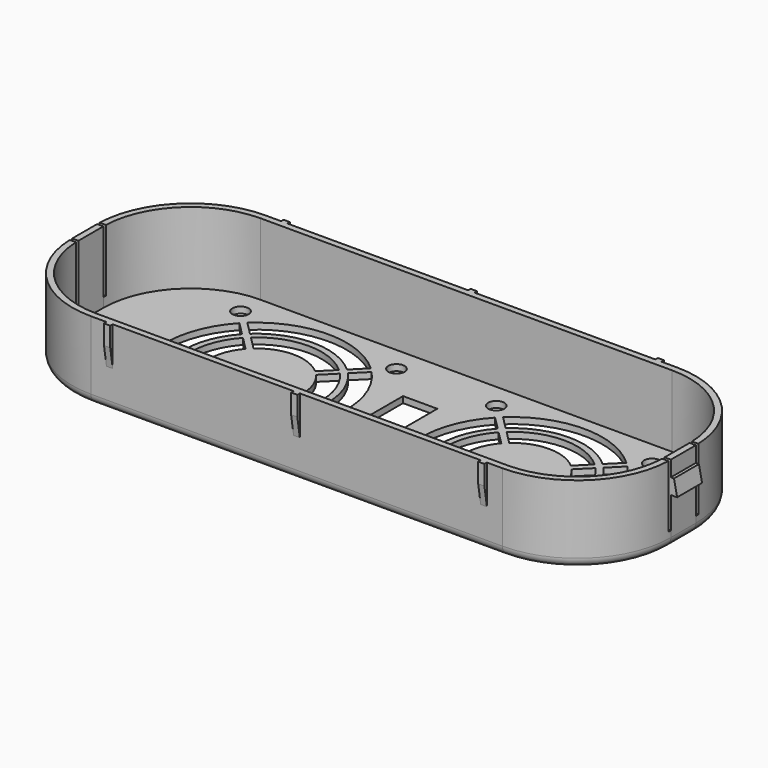
from build123d import *

# Parameters (mm, degrees)
F1_DEPTH  = 25
F2_T      = -2
F3_W      = 1
F3_H      = 20
F4_DEPTH  = 192.001
F5_W      = 10
F5_H      = 5
F6_DEPTH  = 2
F8_DEPTH  = 40.001
F9_W      = 10
F9_H      = 5
F10_DEPTH = 2
F12_DEPTH = 40.001
F13_W     = 2
F13_H     = 12.5
F14_DEPTH = 1
F16_DEPTH = 159.001
F17_W     = 2
F17_H     = 12.5
F18_DEPTH = 1
F20_DEPTH = 159.001
F21_R     = 2.6
F22_DEPTH = 25.001
F23_W     = 11
F23_H     = 29
F24_DEPTH = 25.001
F25_R     = 3


with BuildPart() as f1:
    # F0 (on Top) → F1 (new body)
    with BuildSketch(Plane.XY):
        with BuildLine():
            ThreePointArc((-66, 35), (-87.213203, 26.213203), (-96, 5))
            Line((-96, 5), (-96, -5))
            ThreePointArc((-96, -5), (-87.213203, -26.213203), (-66, -35))
            Line((-66, -35), (66, -35))
            ThreePointArc((66, -35), (87.213203, -26.213203), (96, -5))
            Line((96, -5), (96, 5))
            ThreePointArc((96, 5), (87.213203, 26.213203), (66, 35))
            Line((66, 35), (-66, 35))
        make_face()
    extrude(amount=F1_DEPTH)

    # F2
    f2_openings = [f1.faces().sort_by_distance(p)[0] for p in [
        (0, 0, 25),
    ]]
    offset(amount=F2_T, openings=f2_openings)

    # F3 (on face) → F4 (cut, through all)
    with BuildSketch(Plane.YZ.offset(96)):
        with Locations((-5.5, 15)):
            Rectangle(F3_W, F3_H)
        with Locations((5.5, 15)):
            Rectangle(F3_W, F3_H)
    extrude(amount=-F4_DEPTH, mode=Mode.SUBTRACT)

    # F5 (on face) → F6 (join)
    with BuildSketch(Plane.YZ.offset(96)):
        with Locations((0, 17.5)):
            Rectangle(F5_W, F5_H)
    extrude(amount=F6_DEPTH)

    # F7 (on face) → F8 (cut, through all)
    with BuildSketch(Plane.XZ.offset(5)):
        Polygon((97, 20), (98, 15), (98, 20), align=None)
    extrude(amount=-F8_DEPTH, mode=Mode.SUBTRACT)

    # F9 (on face) → F10 (join)
    with BuildSketch(Plane(origin=(-96, 0, 0), x_dir=(0, -1, 0), z_dir=(-1, 0, 0))):
        with Locations((0, 17.5)):
            Rectangle(F9_W, F9_H)
    extrude(amount=F10_DEPTH)

    # F11 (on face) → F12 (cut, through all)
    with BuildSketch(Plane(origin=(0, 5, 0), x_dir=(-1, 0, 0), z_dir=(0, 1, 0))):
        Polygon((97, 20), (98, 15), (98, 20), align=None)
    extrude(amount=-F12_DEPTH, mode=Mode.SUBTRACT)

    # F13 (on face) → F14 (join)
    with BuildSketch(Plane.XZ.offset(35)):
        with Locations((-60, 18.75)):
            Rectangle(F13_W, F13_H)
        with Locations((0, 18.75)):
            Rectangle(F13_W, F13_H)
        with Locations((60, 18.75)):
            Rectangle(F13_W, F13_H)
    extrude(amount=F14_DEPTH)

    # F15 (on face) → F16 (cut, through all)
    with BuildSketch(Plane.YZ.offset(61)):
        Polygon((-36, 12.5), (-35, 12.5), (-36, 18.75), align=None)
    extrude(amount=-F16_DEPTH, mode=Mode.SUBTRACT)

    # F17 (on face) → F18 (join)
    with BuildSketch(Plane(origin=(0, 35, 0), x_dir=(-1, 0, 0), z_dir=(0, 1, 0))):
        with Locations((-60, 18.75)):
            Rectangle(F17_W, F17_H)
        with Locations((0, 18.75)):
            Rectangle(F17_W, F17_H)
        with Locations((60, 18.75)):
            Rectangle(F17_W, F17_H)
    extrude(amount=F18_DEPTH)

    # F19 (on face) → F20 (cut, through all)
    with BuildSketch(Plane(origin=(-61, 0, 0), x_dir=(0, -1, 0), z_dir=(-1, 0, 0))):
        Polygon((-36, 12.5), (-35, 12.5), (-36, 18.75), align=None)
    extrude(amount=-F20_DEPTH, mode=Mode.SUBTRACT)

    # F21 (on face) → F22 (cut, through all)
    with BuildSketch(Plane(origin=(0, 0, 0), x_dir=(1, 0, 0), z_dir=(0, 0, -1))):
        with Locations((-66, 25)):
            Circle(F21_R)
        with Locations((-16, 25)):
            Circle(F21_R)
        with Locations((-66, -25)):
            Circle(F21_R)
        with Locations((-16, -25)):
            Circle(F21_R)
        with BuildLine():
            Line((-31.124102, 11.290112), (-26.87471, 15.539504))
            ThreePointArc((-26.87471, 15.539504), (-41, 21), (-55.12529, 15.539504))
            Line((-55.12529, 15.539504), (-50.875898, 11.290112))
            ThreePointArc((-50.875898, 11.290112), (-41, 15), (-31.124102, 11.290112))
        make_face()
        with BuildLine():
            ThreePointArc((-25.460496, -14.12529), (-20, 0), (-25.460496, 14.12529))
            Line((-25.460496, 14.12529), (-29.709888, 9.875898))
            ThreePointArc((-29.709888, 9.875898), (-26, 0), (-29.709888, -9.875898))
            Line((-29.709888, -9.875898), (-25.460496, -14.12529))
        make_face()
        with BuildLine():
            ThreePointArc((-55.12529, -15.539504), (-41, -21), (-26.87471, -15.539504))
            Line((-26.87471, -15.539504), (-31.124102, -11.290112))
            ThreePointArc((-31.124102, -11.290112), (-41, -15), (-50.875898, -11.290112))
            Line((-50.875898, -11.290112), (-55.12529, -15.539504))
        make_face()
        with BuildLine():
            ThreePointArc((-56.539504, 14.12529), (-62, 0), (-56.539504, -14.12529))
            Line((-56.539504, -14.12529), (-52.290112, -9.875898))
            ThreePointArc((-52.290112, -9.875898), (-56, 0), (-52.290112, 9.875898))
            Line((-52.290112, 9.875898), (-56.539504, 14.12529))
        make_face()
        with BuildLine():
            Line((-60.786795, 21.201008), (-56.54097, 16.955184))
            ThreePointArc((-56.54097, 16.955184), (-41, 23), (-25.45903, 16.955184))
            Line((-25.45903, 16.955184), (-21.213205, 21.201008))
            ThreePointArc((-21.213205, 21.201008), (-41, 29), (-60.786795, 21.201008))
        make_face()
        with BuildLine():
            Line((-21.213205, -21.201008), (-25.45903, -16.955184))
            ThreePointArc((-25.45903, -16.955184), (-41, -23), (-56.54097, -16.955184))
            Line((-56.54097, -16.955184), (-60.786795, -21.201008))
            ThreePointArc((-60.786795, -21.201008), (-41, -29), (-21.213205, -21.201008))
        make_face()
        with BuildLine():
            Line((-62.201008, -19.786795), (-57.955184, -15.54097))
            ThreePointArc((-57.955184, -15.54097), (-64, 0), (-57.955184, 15.54097))
            Line((-57.955184, 15.54097), (-62.201008, 19.786795))
            ThreePointArc((-62.201008, 19.786795), (-70, 0), (-62.201008, -19.786795))
        make_face()
        with BuildLine():
            Line((-19.798992, 19.786795), (-24.044816, 15.54097))
            ThreePointArc((-24.044816, 15.54097), (-18, 0), (-24.044816, -15.54097))
            Line((-24.044816, -15.54097), (-19.798992, -19.786795))
            ThreePointArc((-19.798992, -19.786795), (-12, 0), (-19.798992, 19.786795))
        make_face()
        with Locations((16, 25)):
            Circle(F21_R)
        with Locations((66, 25)):
            Circle(F21_R)
        with Locations((16, -25)):
            Circle(F21_R)
        with Locations((66, -25)):
            Circle(F21_R)
        with BuildLine():
            Line((50.875898, 11.290112), (55.12529, 15.539504))
            ThreePointArc((55.12529, 15.539504), (41, 21), (26.87471, 15.539504))
            Line((26.87471, 15.539504), (31.124102, 11.290112))
            ThreePointArc((31.124102, 11.290112), (41, 15), (50.875898, 11.290112))
        make_face()
        with BuildLine():
            ThreePointArc((56.539504, -14.12529), (62, 0), (56.539504, 14.12529))
            Line((56.539504, 14.12529), (52.290112, 9.875898))
            ThreePointArc((52.290112, 9.875898), (56, 0), (52.290112, -9.875898))
            Line((52.290112, -9.875898), (56.539504, -14.12529))
        make_face()
        with BuildLine():
            ThreePointArc((26.87471, -15.539504), (41, -21), (55.12529, -15.539504))
            Line((55.12529, -15.539504), (50.875898, -11.290112))
            ThreePointArc((50.875898, -11.290112), (41, -15), (31.124102, -11.290112))
            Line((31.124102, -11.290112), (26.87471, -15.539504))
        make_face()
        with BuildLine():
            ThreePointArc((25.460496, 14.12529), (20, 0), (25.460496, -14.12529))
            Line((25.460496, -14.12529), (29.709888, -9.875898))
            ThreePointArc((29.709888, -9.875898), (26, 0), (29.709888, 9.875898))
            Line((29.709888, 9.875898), (25.460496, 14.12529))
        make_face()
        with BuildLine():
            Line((21.213205, 21.201008), (25.45903, 16.955184))
            ThreePointArc((25.45903, 16.955184), (41, 23), (56.54097, 16.955184))
            Line((56.54097, 16.955184), (60.786795, 21.201008))
            ThreePointArc((60.786795, 21.201008), (41, 29), (21.213205, 21.201008))
        make_face()
        with BuildLine():
            Line((60.786795, -21.201008), (56.54097, -16.955184))
            ThreePointArc((56.54097, -16.955184), (41, -23), (25.45903, -16.955184))
            Line((25.45903, -16.955184), (21.213205, -21.201008))
            ThreePointArc((21.213205, -21.201008), (41, -29), (60.786795, -21.201008))
        make_face()
        with BuildLine():
            Line((19.798992, -19.786795), (24.044816, -15.54097))
            ThreePointArc((24.044816, -15.54097), (18, 0), (24.044816, 15.54097))
            Line((24.044816, 15.54097), (19.798992, 19.786795))
            ThreePointArc((19.798992, 19.786795), (12, 0), (19.798992, -19.786795))
        make_face()
        with BuildLine():
            Line((62.201008, 19.786795), (57.955184, 15.54097))
            ThreePointArc((57.955184, 15.54097), (64, 0), (57.955184, -15.54097))
            Line((57.955184, -15.54097), (62.201008, -19.786795))
            ThreePointArc((62.201008, -19.786795), (70, 0), (62.201008, 19.786795))
        make_face()
    extrude(amount=-F22_DEPTH, mode=Mode.SUBTRACT)

    # F23 (on face) → F24 (cut, through all)
    with BuildSketch(Plane(origin=(0, 0, 0), x_dir=(1, 0, 0), z_dir=(0, 0, -1))):
        Rectangle(F23_W, F23_H)
    extrude(amount=-F24_DEPTH, mode=Mode.SUBTRACT)

    # F25
    f25_edges = [f1.edges().sort_by_distance(p)[0] for p in [
        (87.213203, 26.213203, 0),
    ]]
    fillet(f25_edges, radius=F25_R)


solid = f1.part
